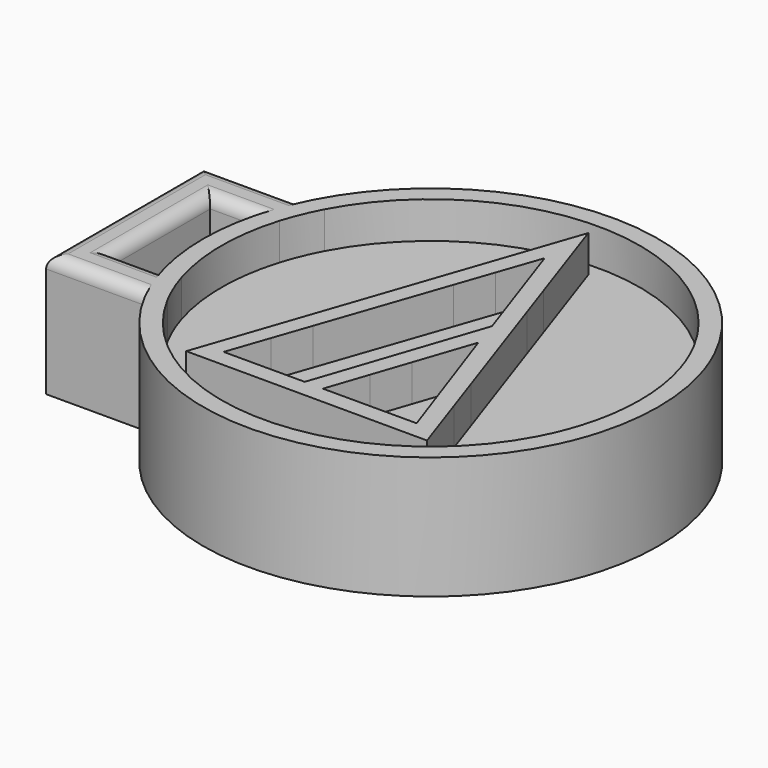
from build123d import *

# Parameters (mm, degrees)
F1_DEPTH = 1
F2_DEPTH = 2.5
F3_R     = 0.5


with BuildPart() as f1:
    # F0 (on Top) → F1 (new body, symmetric)
    with BuildSketch(Plane.XY):
        with BuildLine():
            Line((8.4141432599, 12.7228097238), (2.0764058296, 12.7228097238))
            ThreePointArc((2.0764058296, 12.7228097238), (1.7022858745, 10.2228097238), (2.0764058296, 7.7228097238))
            Line((2.0764058296, 7.7228097238), (6.7053583671, 7.7228097238))
            Line((6.7053583671, 7.7228097238), (8.4141432599, 12.7228097238))
        make_face()
        with BuildLine():
            Line((8.9267787278, 14.2228097238), (2.6969832444, 14.2228097238))
            ThreePointArc((2.6969832444, 14.2228097238), (2.3509732108, 13.4875882894), (2.0764058296, 12.7228097238))
            Line((2.0764058296, 12.7228097238), (8.4141432599, 12.7228097238))
            Line((8.4141432599, 12.7228097238), (8.9267787278, 14.2228097238))
        make_face()
        with BuildLine():
            Line((11.65297826, 14.2228097238), (17.7875802403, 14.2228097238))
            ThreePointArc((17.7875802403, 14.2228097238), (10.2422817423, 18.7628055917), (2.6969832444, 14.2228097238))
            Line((2.6969832444, 14.2228097238), (8.9267787278, 14.2228097238))
            Line((8.9267787278, 14.2228097238), (10.2881211925, 18.2061737809))
            Line((10.2881211925, 18.2061737809), (11.65297826, 14.2228097238))
        make_face()
        with BuildLine():
            Line((12.1669372083, 12.7228097238), (18.4081576551, 12.7228097238))
            ThreePointArc((18.4081576551, 12.7228097238), (18.1335902739, 13.4875882894), (17.7875802403, 14.2228097238))
            Line((17.7875802403, 14.2228097238), (11.65297826, 14.2228097238))
            Line((11.65297826, 14.2228097238), (12.1669372083, 12.7228097238))
        make_face()
        with BuildLine():
            ThreePointArc((18.7822776102, 10.2228097238), (18.6882297642, 11.4867288016), (18.4081576551, 12.7228097238))
            Line((18.4081576551, 12.7228097238), (12.1669372083, 12.7228097238))
            Line((12.1669372083, 12.7228097238), (13.8801337026, 7.7228097238))
            Line((13.8801337026, 7.7228097238), (18.4081576551, 7.7228097238))
            ThreePointArc((18.4081576551, 7.7228097238), (18.6882297642, 8.958890646), (18.7822776102, 10.2228097238))
        make_face()
        with BuildLine():
            ThreePointArc((17.7875802403, 6.2228097238), (18.1335902739, 6.9580311583), (18.4081576551, 7.7228097238))
            Line((18.4081576551, 7.7228097238), (13.8801337026, 7.7228097238))
            Line((13.8801337026, 7.7228097238), (14.3940926509, 6.2228097238))
            Line((14.3940926509, 6.2228097238), (17.7875802403, 6.2228097238))
        make_face()
        with BuildLine():
            ThreePointArc((2.6969832444, 6.2228097238), (10.2422817423, 1.682813856), (17.7875802403, 6.2228097238))
            Line((17.7875802403, 6.2228097238), (14.3940926509, 6.2228097238))
            Line((14.3940926509, 6.2228097238), (15.2206683008, 3.8104313053))
            Line((15.2206683008, 3.8104313053), (5.3754938564, 3.8315519175))
            Line((5.3754938564, 3.8315519175), (6.1927228993, 6.2228097238))
            Line((6.1927228993, 6.2228097238), (2.6969832444, 6.2228097238))
        make_face()
        with BuildLine():
            ThreePointArc((2.0764058296, 7.7228097238), (2.3509732108, 6.9580311583), (2.6969832444, 6.2228097238))
            Line((2.6969832444, 6.2228097238), (6.1927228993, 6.2228097238))
            Line((6.1927228993, 6.2228097238), (6.7053583671, 7.7228097238))
            Line((6.7053583671, 7.7228097238), (2.0764058296, 7.7228097238))
        make_face()
    extrude(amount=F1_DEPTH, both=True)


with BuildPart() as f1b:
    # F0 (on Top) → F1, piece 2 (new body, symmetric)
    with BuildSketch(Plane.XY):
        Polygon((14.2196000911, 4.5315517514), (13.6307644857, 6.2228097238), (10.9651630463, 6.2228097238), (10.3942745785, 4.5315517514), align=None)
        Polygon((13.6307644857, 6.2228097238), (13.1085180736, 7.7228097238), (11.4714918947, 7.7228097238), (10.9651630463, 6.2228097238), align=None)
        Polygon((11.4714918947, 7.7228097238), (13.1085180736, 7.7228097238), (12.2773382064, 10.1101306739), align=None)
    extrude(amount=F1_DEPTH, both=True)


with BuildPart() as f1c:
    # F0 (on Top) → F1, piece 3 (new body, symmetric)
    with BuildSketch(Plane.XY):
        Polygon((11.9088649996, 11.2668357464), (11.4078211469, 12.7228097238), (9.1620651055, 12.7228097238), (7.4375745487, 7.7228097238), (10.718074478, 7.7228097238), align=None)
        Polygon((10.2140754185, 6.2228097238), (10.718074478, 7.7228097238), (7.4375745487, 7.7228097238), (6.9202273817, 6.2228097238), align=None)
        Polygon((10.2140754185, 6.2228097238), (6.9202273817, 6.2228097238), (6.3388128989, 4.5370524997), (9.6476620481, 4.5370524997), align=None)
        Polygon((9.1620651055, 12.7228097238), (11.4078211469, 12.7228097238), (10.8916266333, 14.2228097238), (9.6794122725, 14.2228097238), align=None)
        Polygon((9.6794122725, 14.2228097238), (10.8916266333, 14.2228097238), (10.2861954117, 15.9821210079), align=None)
    extrude(amount=F1_DEPTH, both=True)


with BuildPart() as f2:
    # F0 (on Top) → F2 (new body, symmetric)
    with BuildSketch(Plane.XY):
        with BuildLine():
            Line((17.7875802403, 14.2228097238), (18.6261940454, 14.2228097238))
            ThreePointArc((18.6261940454, 14.2228097238), (10.2422817423, 19.5120500321), (1.8583694393, 14.2228097238))
            Line((1.8583694393, 14.2228097238), (2.6969832444, 14.2228097238))
            ThreePointArc((2.6969832444, 14.2228097238), (10.2422817423, 18.7628055917), (17.7875802403, 14.2228097238))
        make_face()
        with BuildLine():
            Line((2.0764058296, 12.7228097238), (1.2957748539, 12.7228097238))
            ThreePointArc((1.2957748539, 12.7228097238), (0.9530414341, 10.2228097238), (1.2957748539, 7.7228097238))
            Line((1.2957748539, 7.7228097238), (2.0764058296, 7.7228097238))
            ThreePointArc((2.0764058296, 7.7228097238), (1.7022858745, 10.2228097238), (2.0764058296, 12.7228097238))
        make_face()
        with BuildLine():
            Line((2.6969832444, 14.2228097238), (1.8583694393, 14.2228097238))
            ThreePointArc((1.8583694393, 14.2228097238), (1.5446753281, 13.4849605736), (1.2957748539, 12.7228097238))
            Line((1.2957748539, 12.7228097238), (2.0764058296, 12.7228097238))
            ThreePointArc((2.0764058296, 12.7228097238), (2.3509732108, 13.4875882894), (2.6969832444, 14.2228097238))
        make_face()
        with BuildLine():
            ThreePointArc((1.2957748539, 7.7228097238), (1.5446753281, 6.960658874), (1.8583694393, 6.2228097238))
            Line((1.8583694393, 6.2228097238), (2.6969832444, 6.2228097238))
            ThreePointArc((2.6969832444, 6.2228097238), (2.3509732108, 6.9580311583), (2.0764058296, 7.7228097238))
            Line((2.0764058296, 7.7228097238), (1.2957748539, 7.7228097238))
        make_face()
        with BuildLine():
            ThreePointArc((1.8583694393, 6.2228097238), (10.2422817423, 0.9335694156), (18.6261940454, 6.2228097238))
            Line((18.6261940454, 6.2228097238), (17.7875802403, 6.2228097238))
            ThreePointArc((17.7875802403, 6.2228097238), (10.2422817423, 1.682813856), (2.6969832444, 6.2228097238))
            Line((2.6969832444, 6.2228097238), (1.8583694393, 6.2228097238))
        make_face()
        with BuildLine():
            ThreePointArc((18.6261940454, 6.2228097238), (18.9398881566, 6.960658874), (19.1887886308, 7.7228097238))
            Line((19.1887886308, 7.7228097238), (18.4081576551, 7.7228097238))
            ThreePointArc((18.4081576551, 7.7228097238), (18.1335902739, 6.9580311583), (17.7875802403, 6.2228097238))
            Line((17.7875802403, 6.2228097238), (18.6261940454, 6.2228097238))
        make_face()
        with BuildLine():
            ThreePointArc((19.1887886308, 7.7228097238), (19.4454398392, 8.9611177847), (19.5315220506, 10.2228097238))
            ThreePointArc((19.5315220506, 10.2228097238), (19.4454398392, 11.484501663), (19.1887886308, 12.7228097238))
            Line((19.1887886308, 12.7228097238), (18.4081576551, 12.7228097238))
            ThreePointArc((18.4081576551, 12.7228097238), (18.6882297642, 11.4867288016), (18.7822776102, 10.2228097238))
            ThreePointArc((18.7822776102, 10.2228097238), (18.6882297642, 8.958890646), (18.4081576551, 7.7228097238))
            Line((18.4081576551, 7.7228097238), (19.1887886308, 7.7228097238))
        make_face()
        with BuildLine():
            Line((18.4081576551, 12.7228097238), (19.1887886308, 12.7228097238))
            ThreePointArc((19.1887886308, 12.7228097238), (18.9398881566, 13.4849605736), (18.6261940454, 14.2228097238))
            Line((18.6261940454, 14.2228097238), (17.7875802403, 14.2228097238))
            ThreePointArc((17.7875802403, 14.2228097238), (18.1335902739, 13.4875882894), (18.4081576551, 12.7228097238))
        make_face()
        with BuildLine():
            ThreePointArc((1.2957748539, 12.7228097238), (1.5446753281, 13.4849605736), (1.8583694393, 14.2228097238))
            Line((1.8583694393, 14.2228097238), (-2.2577182577, 14.2228097238))
            Line((-2.2577182577, 14.2228097238), (-2.2577182577, 6.2228097238))
            Line((-2.2577182577, 6.2228097238), (1.8583694393, 6.2228097238))
            ThreePointArc((1.8583694393, 6.2228097238), (1.5446753281, 6.960658874), (1.2957748539, 7.7228097238))
            Line((1.2957748539, 7.7228097238), (-0.7577182577, 7.7228097238))
            Line((-0.7577182577, 7.7228097238), (-0.7577182577, 12.7228097238))
            Line((-0.7577182577, 12.7228097238), (1.2957748539, 12.7228097238))
        make_face()
    extrude(amount=F2_DEPTH, both=True)

    # F3
    f3_edges = [f2.edges().sort_by_distance(p)[0] for p in [
        (0.269028, 12.72281, 2.5),
        (-0.757718, 10.22281, 2.5),
        (0.269028, 7.72281, 2.5),
        (-0.199674, 6.22281, 2.5),
        (-2.257718, 10.22281, 2.5),
        (-0.199674, 14.22281, 2.5),
    ]]
    fillet(f3_edges, radius=F3_R)


with BuildPart() as f2b:
    # F0 (on Top) → F2, piece 2 (new body, symmetric)
    with BuildSketch(Plane.XY):
        Polygon((10.8916266333, 14.2228097238), (11.65297826, 14.2228097238), (10.2881211925, 18.2061737809), (8.9267787278, 14.2228097238), (9.6794122725, 14.2228097238), (10.2861954117, 15.9821210079), align=None)
        Polygon((11.4078211469, 12.7228097238), (12.1669372083, 12.7228097238), (11.65297826, 14.2228097238), (10.8916266333, 14.2228097238), align=None)
        Polygon((9.6794122725, 14.2228097238), (8.9267787278, 14.2228097238), (8.4141432599, 12.7228097238), (9.1620651055, 12.7228097238), align=None)
        Polygon((7.4375745487, 7.7228097238), (9.1620651055, 12.7228097238), (8.4141432599, 12.7228097238), (6.7053583671, 7.7228097238), align=None)
        Polygon((13.8801337026, 7.7228097238), (12.1669372083, 12.7228097238), (11.4078211469, 12.7228097238), (11.9088649996, 11.2668357464), (10.718074478, 7.7228097238), (11.4714918947, 7.7228097238), (12.2773382064, 10.1101306739), (13.1085180736, 7.7228097238), align=None)
        Polygon((14.3940926509, 6.2228097238), (13.8801337026, 7.7228097238), (13.1085180736, 7.7228097238), (13.6307644857, 6.2228097238), align=None)
        Polygon((15.2206683008, 3.8104313053), (14.3940926509, 6.2228097238), (13.6307644857, 6.2228097238), (14.2196000911, 4.5315517514), (10.3942745785, 4.5315517514), (10.9651630463, 6.2228097238), (10.2140754185, 6.2228097238), (9.6476620481, 4.5370524997), (6.3388128989, 4.5370524997), (6.9202273817, 6.2228097238), (6.1927228993, 6.2228097238), (5.3754938564, 3.8315519175), align=None)
        Polygon((10.9651630463, 6.2228097238), (11.4714918947, 7.7228097238), (10.718074478, 7.7228097238), (10.2140754185, 6.2228097238), align=None)
        Polygon((6.7053583671, 7.7228097238), (6.1927228993, 6.2228097238), (6.9202273817, 6.2228097238), (7.4375745487, 7.7228097238), align=None)
    extrude(amount=F2_DEPTH, both=True)


solid = Compound([f1.part, f1b.part, f1c.part, f2.part, f2b.part])
